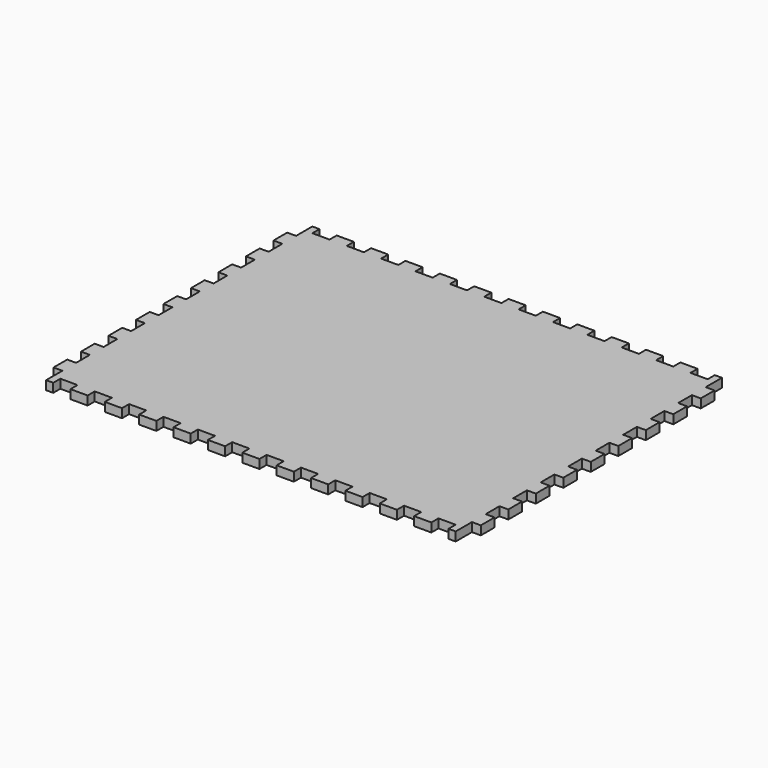
from build123d import *

# Parameters (mm, degrees)
F0_W     = 286
F0_H     = 220
F1_DEPTH = 6.2
F2_W     = 5
F2_H     = 6.2
F2_W_2   = 12
F3_DEPTH = 6.2
F4_W     = 6.2
F4_H     = 12
F5_DEPTH = 6.2


with BuildPart() as f1:
    # F0 (on Top) → F1 (new body)
    with BuildSketch(Plane.XY):
        Rectangle(F0_W, F0_H)
    extrude(amount=F1_DEPTH)

    # F2 (on face) → F3 (join, through all)
    with BuildSketch(Plane.XY.offset(6.2)):
        with Locations((140.5, 113.1)):
            Rectangle(F2_W, F2_H)
        with Locations((120, 113.1)):
            Rectangle(F2_W_2, F2_H)
        with Locations((96, 113.1)):
            Rectangle(F2_W_2, F2_H)
        with Locations((72, 113.1)):
            Rectangle(F2_W_2, F2_H)
        with Locations((48, 113.1)):
            Rectangle(F2_W_2, F2_H)
        with Locations((24, 113.1)):
            Rectangle(F2_W_2, F2_H)
        with Locations((0, 113.1)):
            Rectangle(F2_W_2, F2_H)
        with Locations((-24, 113.1)):
            Rectangle(F2_W_2, F2_H)
        with Locations((-48, 113.1)):
            Rectangle(F2_W_2, F2_H)
        with Locations((-72, 113.1)):
            Rectangle(F2_W_2, F2_H)
        with Locations((-96, 113.1)):
            Rectangle(F2_W_2, F2_H)
        with Locations((-120, 113.1)):
            Rectangle(F2_W_2, F2_H)
        with Locations((-140.5, 113.1)):
            Rectangle(F2_W, F2_H)
        with Locations((-140.5, -113.1)):
            Rectangle(F2_W, F2_H)
        with Locations((-120, -113.1)):
            Rectangle(F2_W_2, F2_H)
        with Locations((-96, -113.1)):
            Rectangle(F2_W_2, F2_H)
        with Locations((-72, -113.1)):
            Rectangle(F2_W_2, F2_H)
        with Locations((-48, -113.1)):
            Rectangle(F2_W_2, F2_H)
        with Locations((-24, -113.1)):
            Rectangle(F2_W_2, F2_H)
        with Locations((0, -113.1)):
            Rectangle(F2_W_2, F2_H)
        with Locations((24, -113.1)):
            Rectangle(F2_W_2, F2_H)
        with Locations((48, -113.1)):
            Rectangle(F2_W_2, F2_H)
        with Locations((72, -113.1)):
            Rectangle(F2_W_2, F2_H)
        with Locations((96, -113.1)):
            Rectangle(F2_W_2, F2_H)
        with Locations((120, -113.1)):
            Rectangle(F2_W_2, F2_H)
        with Locations((140.5, -113.1)):
            Rectangle(F2_W, F2_H)
    extrude(amount=-F3_DEPTH)

    # F4 (on face) → F5 (join, through all)
    with BuildSketch(Plane.XY.offset(6.2)):
        with Locations((146.1, -96)):
            Rectangle(F4_W, F4_H)
        with Locations((146.1, -72)):
            Rectangle(F4_W, F4_H)
        with Locations((146.1, -48)):
            Rectangle(F4_W, F4_H)
        with Locations((146.1, -24)):
            Rectangle(F4_W, F4_H)
        with Locations((146.1, 0)):
            Rectangle(F4_W, F4_H)
        with Locations((146.1, 24)):
            Rectangle(F4_W, F4_H)
        with Locations((146.1, 48)):
            Rectangle(F4_W, F4_H)
        with Locations((146.1, 72)):
            Rectangle(F4_W, F4_H)
        with Locations((146.1, 96)):
            Rectangle(F4_W, F4_H)
        with Locations((-146.1, 96)):
            Rectangle(F4_W, F4_H)
        with Locations((-146.1, 72)):
            Rectangle(F4_W, F4_H)
        with Locations((-146.1, 48)):
            Rectangle(F4_W, F4_H)
        with Locations((-146.1, 24)):
            Rectangle(F4_W, F4_H)
        with Locations((-146.1, 0)):
            Rectangle(F4_W, F4_H)
        with Locations((-146.1, -24)):
            Rectangle(F4_W, F4_H)
        with Locations((-146.1, -48)):
            Rectangle(F4_W, F4_H)
        with Locations((-146.1, -72)):
            Rectangle(F4_W, F4_H)
        with Locations((-146.1, -96)):
            Rectangle(F4_W, F4_H)
    extrude(amount=-F5_DEPTH)


solid = f1.part
